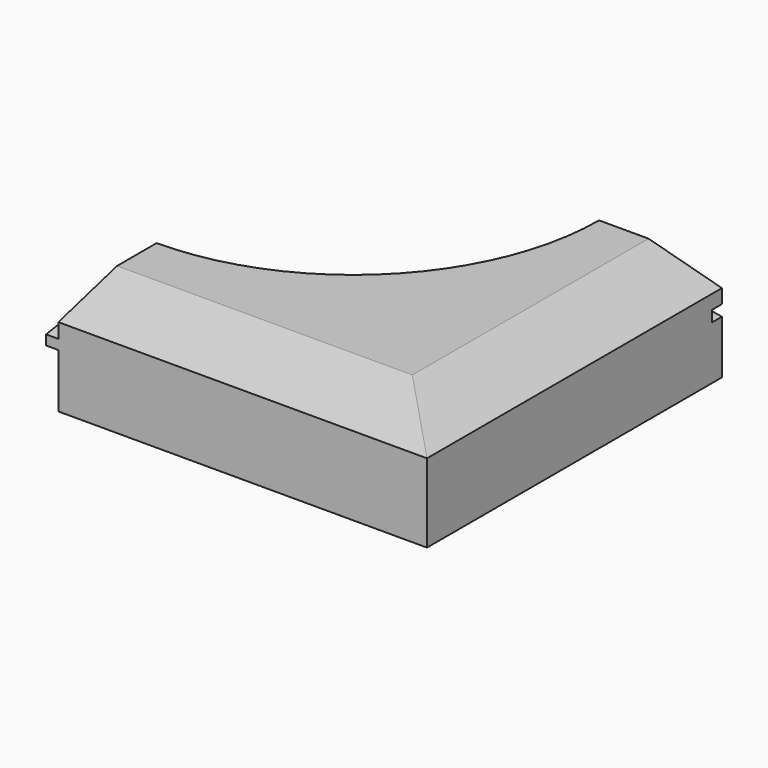
from build123d import *

# Parameters (mm, degrees)
F1_DEPTH  = 29
F3_DEPTH  = 150
F5_DEPTH  = 150.001
F7_DEPTH  = 5
F9_DEPTH  = 5
F11_DEPTH = 150


with BuildPart() as f1:
    # F0 (on Top) → F1 (new body)
    with BuildSketch(Plane.XY):
        with BuildLine():
            Line((150, -150), (150, 0))
            Line((150, 0), (100, 0))
            ThreePointArc((100, 0), (70.7106781187, -70.7106781187), (0, -100))
            Line((0, -100), (0, -150))
            Line((0, -150), (150, -150))
        make_face()
    extrude(amount=F1_DEPTH)

    # F2 (on face) → F3 (cut, through all)
    with BuildSketch(Plane(origin=(0, 0, 0), x_dir=(0, -1, 0), z_dir=(-1, 0, 0))):
        Polygon((150, 29), (120.1435935394, 29), (150, 21), align=None)
    extrude(amount=-F3_DEPTH, mode=Mode.SUBTRACT)

    # F4 (on face) → F5 (cut, through all)
    with BuildSketch(Plane(origin=(0, 0, 0), x_dir=(-1, 0, 0), z_dir=(0, 1, 0))):
        Polygon((-120.1435935394, 29), (-150, 29), (-150, 21), align=None)
    extrude(amount=-F5_DEPTH, mode=Mode.SUBTRACT)

    # F6 (on face) → F7 (join)
    with BuildSketch(Plane(origin=(0, 0, 0), x_dir=(0, -1, 0), z_dir=(-1, 0, 0))):
        Polygon((150, 15), (100, 23), (100, 19), (150, 11), align=None)
    extrude(amount=F7_DEPTH)

    # F8 (on face) → F9 (cut)
    with BuildSketch(Plane(origin=(0, 0, 0), x_dir=(-1, 0, 0), z_dir=(0, 1, 0))):
        Polygon((-95.0627968404, 24.0399525055), (-100, 23.25), (-150, 15.25), (-150, 10.75), (-100, 18.75), (-95.0627968404, 19.5399525055), align=None)
    extrude(amount=-F9_DEPTH, mode=Mode.SUBTRACT)

    # F10 (on face) → F11 (join)
    with BuildSketch(Plane(origin=(0, 0, 0), x_dir=(0, -1, 0), z_dir=(-1, 0, 0))):
        Polygon((150, -11), (150, 0), (139, 0), align=None)
    extrude(amount=-F11_DEPTH)

    # F12 (on face) → F13 (join, up to the next surface of F1)
    with BuildSketch(Plane(origin=(0, 0, 0), x_dir=(-1, 0, 0), z_dir=(0, 1, 0))):
        Polygon((-139, 0), (-150, 0), (-150, -11), align=None)
    extrude(until=Until.NEXT, dir=(0, -1, 0))


solid = f1.part
